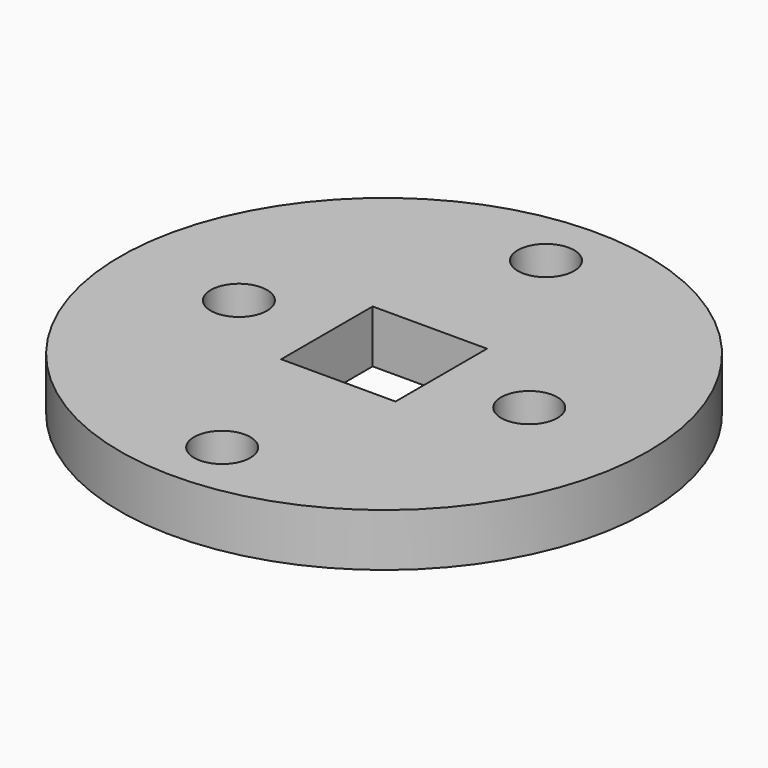
from build123d import *

# Parameters (mm, degrees)
F0_R     = 15
F1_DEPTH = 3
F2_R     = 1.6
F2_W     = 6.5
F2_H     = 6.5
F3_DEPTH = 3


with BuildPart() as f1:
    # F0 (on Top) → F1 (new body)
    with BuildSketch(Plane.XY):
        Circle(F0_R)
    extrude(amount=F1_DEPTH)

    # F2 (on face) → F3 (cut, through all)
    with BuildSketch(Plane.XY.offset(3)):
        with Locations((0, 11.5)):
            Circle(F2_R)
        with Locations((0, -11.5)):
            Circle(F2_R)
        with Locations((-8.25, 0)):
            Circle(F2_R)
        with Locations((8.25, 0)):
            Circle(F2_R)
        Rectangle(F2_W, F2_H)
    extrude(amount=-F3_DEPTH, mode=Mode.SUBTRACT)


solid = f1.part
